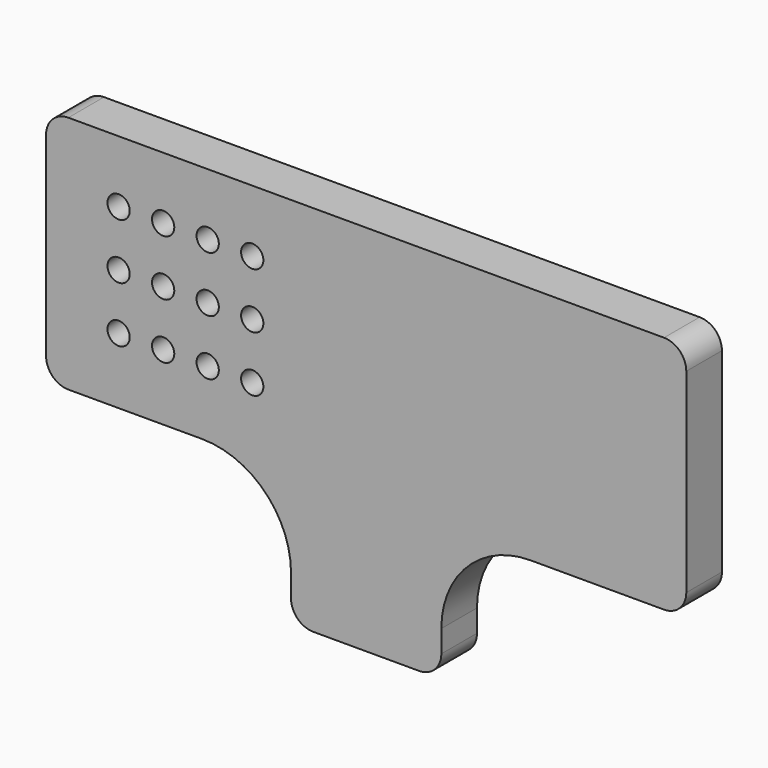
from build123d import *

# Parameters (mm, degrees)
F0_R     = 12.7
F1_DEPTH = 50.8


with BuildPart() as f1:
    # F0 (on Front) → F1 (new body)
    with BuildSketch(Plane.XZ):
        with BuildLine():
            ThreePointArc((260.35, 25.4), (267.789488, 7.439488), (285.75, 0))
            Line((285.75, 0), (406.4, 0))
            ThreePointArc((406.4, 0), (424.360512, 7.439488), (431.8, 25.4))
            Line((431.8, 25.4), (431.8, 50.8))
            ThreePointArc((431.8, 50.8), (461.557951, 122.642049), (533.4, 152.4))
            Line((533.4, 152.4), (685.8, 152.4))
            ThreePointArc((685.8, 152.4), (703.760512, 159.839488), (711.2, 177.8))
            Line((711.2, 177.8), (711.2, 400.05))
            ThreePointArc((711.2, 400.05), (703.760512, 418.010512), (685.8, 425.45))
            Line((685.8, 425.45), (6.35, 425.45))
            ThreePointArc((6.35, 425.45), (-11.610512, 418.010512), (-19.05, 400.05))
            Line((-19.05, 400.05), (-19.05, 177.8))
            ThreePointArc((-19.05, 177.8), (-11.610512, 159.839488), (6.35, 152.4))
            Line((6.35, 152.4), (158.75, 152.4))
            ThreePointArc((158.75, 152.4), (230.592049, 122.642049), (260.35, 50.8))
            Line((260.35, 50.8), (260.35, 25.4))
        make_face()
        with Locations((63.692227, 227.595572)):
            Circle(F0_R, mode=Mode.SUBTRACT)
        with Locations((114.492227, 227.595572)):
            Circle(F0_R, mode=Mode.SUBTRACT)
        with Locations((63.692227, 291.095572)):
            Circle(F0_R, mode=Mode.SUBTRACT)
        with Locations((114.492227, 291.095572)):
            Circle(F0_R, mode=Mode.SUBTRACT)
        with Locations((165.292227, 227.595572)):
            Circle(F0_R, mode=Mode.SUBTRACT)
        with Locations((216.092227, 227.595572)):
            Circle(F0_R, mode=Mode.SUBTRACT)
        with Locations((165.292227, 291.095572)):
            Circle(F0_R, mode=Mode.SUBTRACT)
        with Locations((216.092227, 291.095572)):
            Circle(F0_R, mode=Mode.SUBTRACT)
        with Locations((63.692227, 354.595572)):
            Circle(F0_R, mode=Mode.SUBTRACT)
        with Locations((114.492227, 354.595572)):
            Circle(F0_R, mode=Mode.SUBTRACT)
        with Locations((165.292227, 354.595572)):
            Circle(F0_R, mode=Mode.SUBTRACT)
        with Locations((216.092227, 354.595572)):
            Circle(F0_R, mode=Mode.SUBTRACT)
    extrude(amount=-F1_DEPTH)


solid = f1.part
